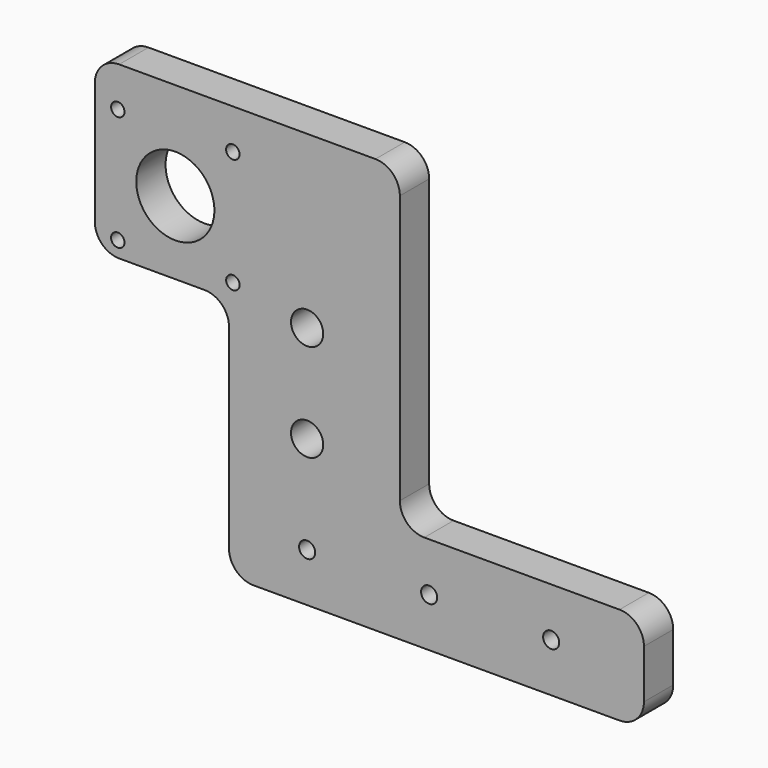
from build123d import *

# Parameters (mm, degrees)
F1_DEPTH = 15
F2_D     = 13.2
F3_D     = 6.6
F4_R     = 10
F5_D     = 32
F6_D     = 5.5


with BuildPart() as f1:
    # F0 (on Front) → F1 (new body)
    with BuildSketch(Plane.XZ):
        Polygon((62.0740194619, 40.9148037434), (-57.9259805381, 40.9148037434), (-62.9259805381, 40.9148037434), (-62.9259805381, -29.0851962566), (-57.9259805381, -29.0851962566), (-7.9259805381, -29.0851962566), (-7.9259805381, -129.0851962566), (162.0740194619, -129.0851962566), (162.0740194619, -89.0851962566), (62.0740194619, -89.0851962566), align=None)
    extrude(amount=F1_DEPTH)

    # F2 (through all)
    with Locations(Plane(origin=(0, 0, 0), x_dir=(1, 0, 0), z_dir=(0, 1, 0))):
        with Locations((24.0740194619, 69.0851962566), (24.0740194619, 29.0851962566)):
            Hole(F2_D / 2)

    # F3 (through all)
    with Locations(Plane(origin=(0, 0, 0), x_dir=(1, 0, 0), z_dir=(0, 1, 0))):
        with Locations((24.0740194619, 109.0851962566), (74.0740194619, 109.0851962566), (124.0740194619, 109.0851962566)):
            Hole(F3_D / 2)

    # F4
    f4_edges = [f1.edges().sort_by_distance(p)[0] for p in [
        (62.074019, -7.5, 40.914804),
        (62.074019, -7.5, -89.085196),
        (162.074019, -7.5, -129.085196),
        (162.074019, -7.5, -89.085196),
        (-7.925981, -7.5, -129.085196),
        (-7.925981, -7.5, -29.085196),
        (-62.925981, -7.5, 40.914804),
        (-62.925981, -7.5, -29.085196),
    ]]
    fillet(f4_edges, radius=F4_R)

    # F5 (through all)
    with Locations(Plane(origin=(0, 0, 0), x_dir=(1, 0, 0), z_dir=(0, 1, 0))):
        with Locations((-29.9259805381, -0.9148037434)):
            Hole(F5_D / 2)

    # F6 (through all)
    with Locations(Plane(origin=(0, 0, 0), x_dir=(1, 0, 0), z_dir=(0, 1, 0))):
        with Locations((-53.4959805381, -24.4848037434), (-6.3559805381, -24.4848037434), (-6.3559805381, 22.6551962566), (-53.4959805381, 22.6551962566)):
            Hole(F6_D / 2)


solid = f1.part
